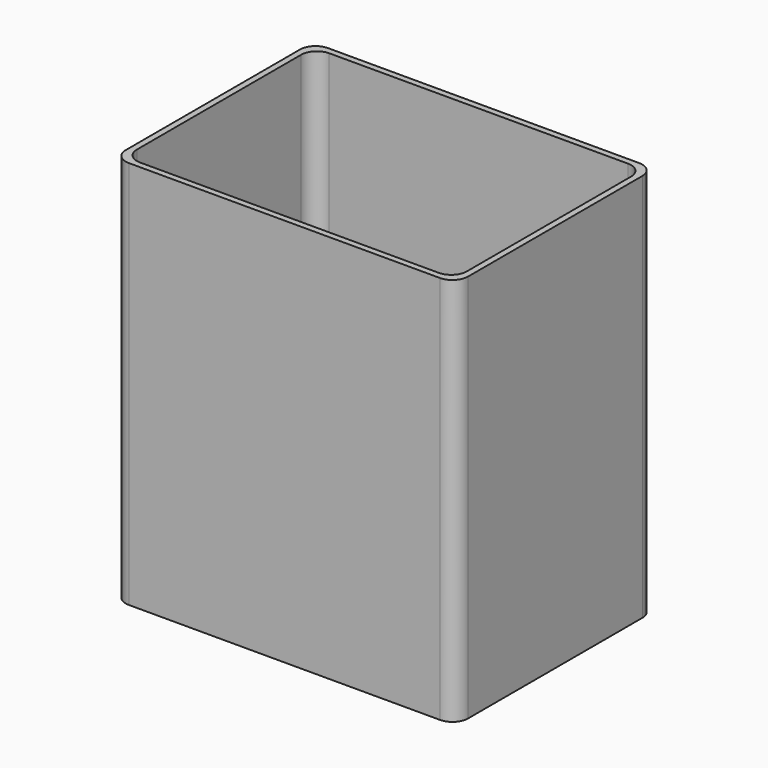
from build123d import *

# Parameters (mm, degrees)
F1_DEPTH = 152.4
F2_DEPTH = 6.35
F3_DEPTH = 2.54
F4_D     = 12.7


with BuildPart() as f1:
    # F0 (on Top) → F1 (new body)
    with BuildSketch(Plane.XY):
        with BuildLine():
            Line((63.5, 50.8), (-63.5, 50.8))
            ThreePointArc((-63.5, 50.8), (-67.990128, 48.940128), (-69.85, 44.45))
            Line((-69.85, 44.45), (-69.85, -44.45))
            ThreePointArc((-69.85, -44.45), (-67.990128, -48.940128), (-63.5, -50.8))
            Line((-63.5, -50.8), (63.5, -50.8))
            ThreePointArc((63.5, -50.8), (67.990128, -48.940128), (69.85, -44.45))
            Line((69.85, -44.45), (69.85, 44.45))
            ThreePointArc((69.85, 44.45), (67.990128, 48.940128), (63.5, 50.8))
        make_face()
        with BuildLine():
            ThreePointArc((-67.31, 41.91), (-65.450128, 46.400128), (-60.96, 48.26))
            Line((-60.96, 48.26), (60.96, 48.26))
            ThreePointArc((60.96, 48.26), (65.450128, 46.400128), (67.31, 41.91))
            Line((67.31, 41.91), (67.31, -41.91))
            ThreePointArc((67.31, -41.91), (65.450128, -46.400128), (60.96, -48.26))
            Line((60.96, -48.26), (-60.96, -48.26))
            ThreePointArc((-60.96, -48.26), (-65.450128, -46.400128), (-67.31, -41.91))
            Line((-67.31, -41.91), (-67.31, 41.91))
        make_face(mode=Mode.SUBTRACT)
    extrude(amount=F1_DEPTH)

    # F0 (on Top) → F2 (join)
    with BuildSketch(Plane.XY):
        with BuildLine():
            Line((63.5, 50.8), (-63.5, 50.8))
            ThreePointArc((-63.5, 50.8), (-67.990128, 48.940128), (-69.85, 44.45))
            Line((-69.85, 44.45), (-69.85, -44.45))
            ThreePointArc((-69.85, -44.45), (-67.990128, -48.940128), (-63.5, -50.8))
            Line((-63.5, -50.8), (63.5, -50.8))
            ThreePointArc((63.5, -50.8), (67.990128, -48.940128), (69.85, -44.45))
            Line((69.85, -44.45), (69.85, 44.45))
            ThreePointArc((69.85, 44.45), (67.990128, 48.940128), (63.5, 50.8))
        make_face()
        with BuildLine():
            ThreePointArc((-67.31, 41.91), (-65.450128, 46.400128), (-60.96, 48.26))
            Line((-60.96, 48.26), (60.96, 48.26))
            ThreePointArc((60.96, 48.26), (65.450128, 46.400128), (67.31, 41.91))
            Line((67.31, 41.91), (67.31, -41.91))
            ThreePointArc((67.31, -41.91), (65.450128, -46.400128), (60.96, -48.26))
            Line((60.96, -48.26), (-60.96, -48.26))
            ThreePointArc((-60.96, -48.26), (-65.450128, -46.400128), (-67.31, -41.91))
            Line((-67.31, -41.91), (-67.31, 41.91))
        make_face(mode=Mode.SUBTRACT)
    extrude(amount=-F2_DEPTH)

    # F0 (on Top) → F3 (join)
    with BuildSketch(Plane.XY):
        with BuildLine():
            Line((60.96, 48.26), (-60.96, 48.26))
            ThreePointArc((-60.96, 48.26), (-65.450128, 46.400128), (-67.31, 41.91))
            Line((-67.31, 41.91), (-67.31, -41.91))
            ThreePointArc((-67.31, -41.91), (-65.450128, -46.400128), (-60.96, -48.26))
            Line((-60.96, -48.26), (60.96, -48.26))
            ThreePointArc((60.96, -48.26), (65.450128, -46.400128), (67.31, -41.91))
            Line((67.31, -41.91), (67.31, 41.91))
            ThreePointArc((67.31, 41.91), (65.450128, 46.400128), (60.96, 48.26))
        make_face()
    extrude(amount=F3_DEPTH)

    # F4 (through all)
    with Locations(Plane(origin=(0, 0, 0), x_dir=(1, 0, 0), z_dir=(0, 0, -1))):
        with Locations((0, 0)):
            Hole(F4_D / 2)


solid = f1.part
